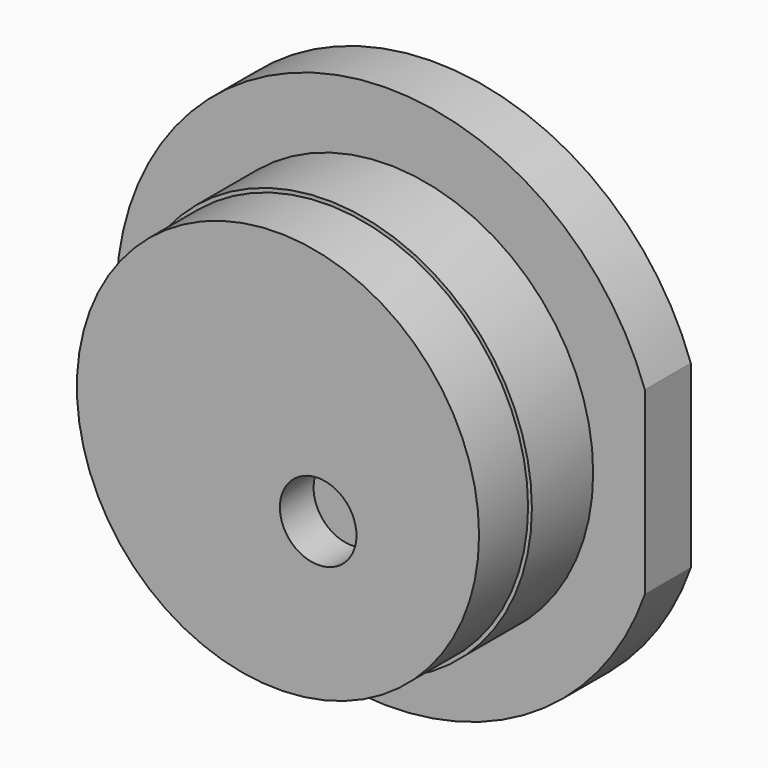
from build123d import *

# Parameters (mm, degrees)
F1_DEPTH = 15
F2_R     = 53.5
F3_DEPTH = 20
F4_R     = 52.5
F5_DEPTH = 16
F6_R     = 10
F7_DEPTH = 11


with BuildPart() as f1:
    # F0 (on Front) → F1 (new body)
    with BuildSketch(Plane.XZ):
        with BuildLine():
            Line((67, -23.49468), (67, 23.49468))
            ThreePointArc((67, 23.49468), (-71, 0), (67, -23.49468))
        make_face()
    extrude(amount=F1_DEPTH)

    # F2 (on face) → F3 (join)
    with BuildSketch(Plane.XZ.offset(15)):
        Circle(F2_R)
    extrude(amount=F3_DEPTH)

    # F4 (on face) → F5 (join)
    with BuildSketch(Plane.XZ.offset(35)):
        Circle(F4_R)
    extrude(amount=F5_DEPTH)

    # F6 (on face) → F7 (cut)
    with BuildSketch(Plane.XZ.offset(51)):
        with Locations((10.5, -10.5)):
            Circle(F6_R)
    extrude(amount=-F7_DEPTH, mode=Mode.SUBTRACT)


solid = f1.part
